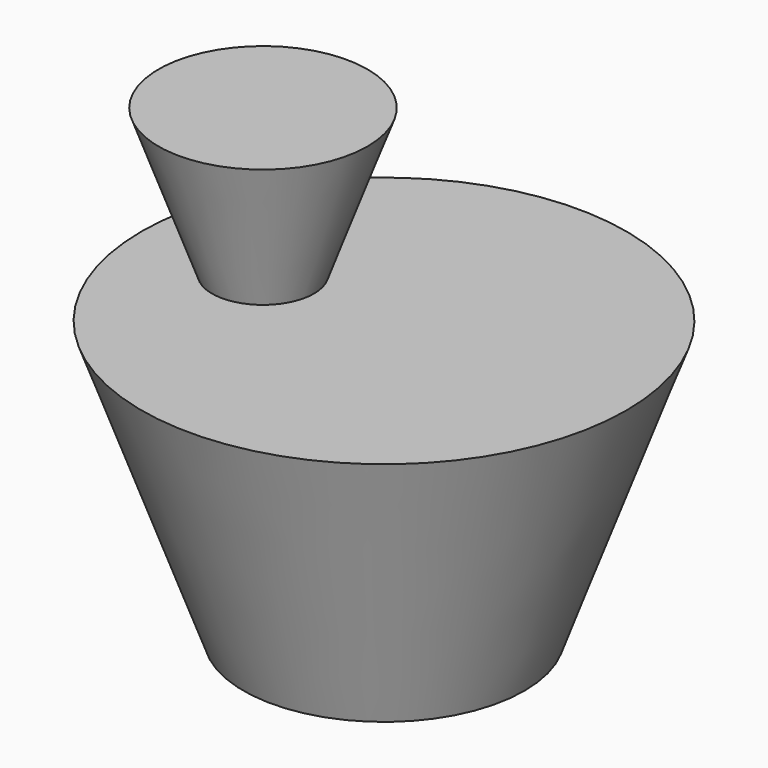
from build123d import *

# Parameters (mm, degrees)
F0_R     = 38.2565244621
F1_DEPTH = 76.2
F1_TAPER = -20
F2_R     = 13.8877576184
F3_DEPTH = 40
F3_TAPER = -20


with BuildPart() as f1:
    # F0 (on Top) → F1 (new body)
    with BuildSketch(Plane.XY):
        with Locations((-3.0614435673, 2.5716200471)):
            Circle(F0_R)
    extrude(amount=F1_DEPTH, taper=F1_TAPER)

    # F2 (on face) → F3 (join)
    with BuildSketch(Plane.XY.offset(76.2)):
        with Locations((-36.4163592458, 3.091558814)):
            Circle(F2_R)
    extrude(amount=F3_DEPTH, taper=F3_TAPER)


solid = f1.part
